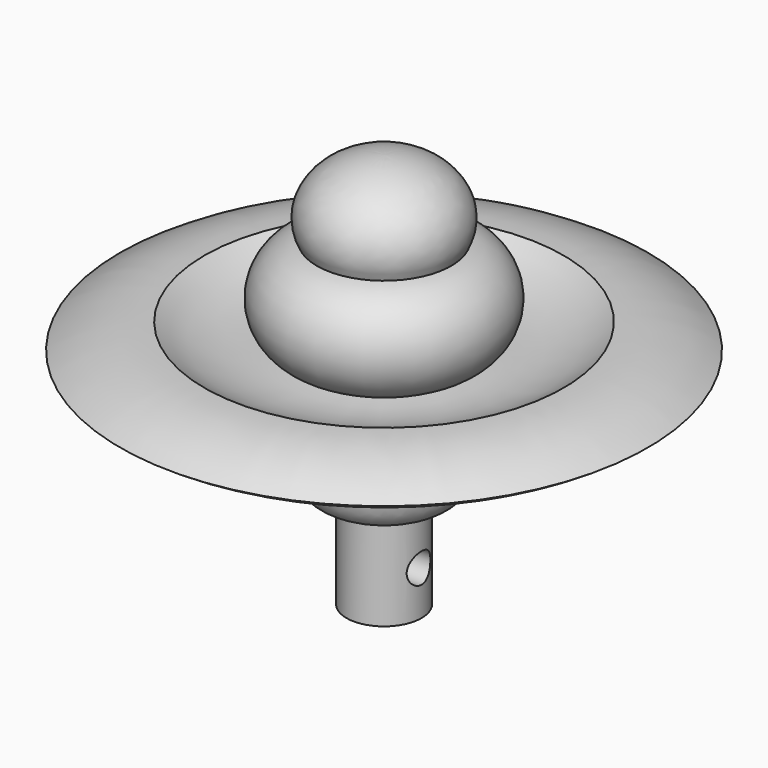
from build123d import *

# Parameters (mm, degrees)
F2_R     = 3.5634649621
F3_DEPTH = 25.4
F4_DEPTH = 25.4


with BuildPart() as f1:
    # F0 (on Front) → F1 (revolve)
    with BuildSketch(Plane.XZ):
        with BuildLine():
            Line((0, -31.6168554127), (0, 14.6877852364))
            Line((0, 14.6877852364), (0, 41.4482640938))
            add(Edge.make_bspline(
                [(0, 41.4482640938), (-25.6740520635, 41.4482640938), (-16.1890444672, 23.12483641)],
                knots=[1.5707963268, 1.5707963268, 1.5707963268, 3.5199983734, 3.5199983734, 3.5199983734], degree=2, weights=[1, 0.5614982427, 1]))
            ThreePointArc((-16.1890444672, 23.12483641), (-26.1269124398, 12.7069231562), (-19.3572565913, 0))
            ThreePointArc((-19.3572565913, 0), (-31.9139919734, 0.5656111198), (-43.2330009959, 6.0310986683))
            ThreePointArc((-43.2330009959, 6.0310986683), (-53.884249017, 4.6653287196), (-63.5563284159, 0))
            ThreePointArc((-63.5563284159, 0), (-61.1052161076, -1.5398735842), (-58.5253632579, -2.852703153))
            ThreePointArc((-58.5253632579, -2.852703153), (-47.4894028022, 0.7494839504), (-37.2366299676, -4.6955894476))
            ThreePointArc((-37.2366299676, -4.6955894476), (-34.7183947898, -3.9333720133), (-32.2710320848, -2.9675047252))
            ThreePointArc((-32.2710320848, -2.9675047252), (-26.3415646355, -9.3488473307), (-18.0822180019, -12.1171158992))
            add(Edge.make_bspline(
                [(-18.0822180019, -12.1171158992), (-18.0762251984, -12.3795353184), (-17.9455253082, -18.958346138), (-18.6461523511, -28.5006584635), (-12.0803813525, -30.8886451777), (-9.6367610934, -31.2720729229)],
                knots=[0.4937011161, 0.4937011161, 0.4937011161, 0.4937011161, 0.5040536134, 0.7530494568, 0.866814487, 0.866814487, 0.866814487, 0.866814487], degree=3))
            Line((-9.6367610934, -31.2720729229), (-9.0325408773, -31.2720729229))
            Line((-9.0325408773, -31.2720729229), (-9.0325408773, -31.3586124199))
            add(Edge.make_bspline(
                [(-9.0325408773, -31.3586124199), (-6.3048687908, -31.7137212723), (-3.1526142589, -31.6653227611), (0, -31.6168554127)],
                knots=[0.8760752846, 0.8760752846, 0.8760752846, 0.8760752846, 1, 1, 1, 1], degree=3))
        make_face()
        with BuildLine():
            Line((0, -37.4240316451), (0, -31.6168554127))
            add(Edge.make_bspline(
                [(-9.0325408773, -31.3586124199), (-6.3048687908, -31.7137212723), (-3.1526142589, -31.6653227611), (0, -31.6168554127)],
                knots=[0.8760752846, 0.8760752846, 0.8760752846, 0.8760752846, 1, 1, 1, 1], degree=3))
            Line((-9.0325408773, -31.3586124199), (-9.0325408773, -53.8723139956))
            Line((-9.0325408773, -53.8723139956), (-4.5162704386, -53.8723139956))
            Line((-4.5162704386, -53.8723139956), (0, -37.4240316451))
        make_face()
    revolve(axis=Axis((0, 0, 2.0121162244), (0, 0, -1)))

    # F2 (on Right) → F3 (cut)
    with BuildSketch(Plane.YZ):
        with Locations((0, -43.2312116027)):
            Circle(F2_R)
    extrude(amount=-F3_DEPTH, mode=Mode.SUBTRACT)

    # F2 (on Right) → F4 (cut)
    with BuildSketch(Plane.YZ):
        with Locations((0, -43.2312116027)):
            Circle(F2_R)
    extrude(amount=F4_DEPTH, mode=Mode.SUBTRACT)


solid = f1.part
